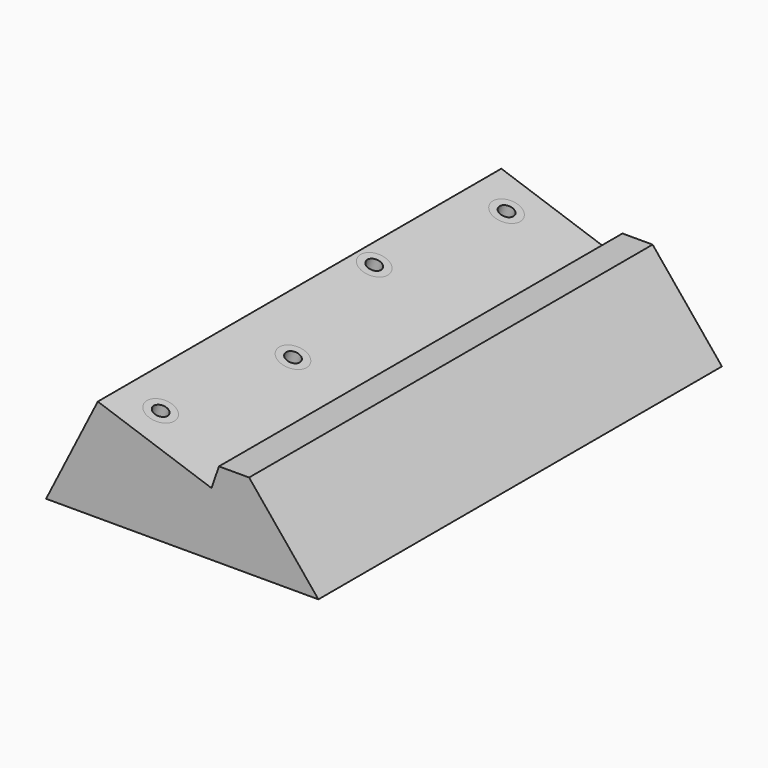
from build123d import *

# Parameters (mm, degrees)
F1_DEPTH = 140
F2_R     = 4
F3_DEPTH = 30
F4_R     = 4
F4_R_2   = 2
F5_DEPTH = 10


with BuildPart() as f1:
    # F0 (on Front) → F1 (new body)
    with BuildSketch(Plane.XZ):
        Polygon((2.0625628796, 5.9807691723), (0, 0), (-31.5625444055, 10.8848428354), (-45.9147356451, -17.5394751132), (29.6659134328, -17.5394751132), (10.4307364672, 5.9807691723), align=None)
    extrude(amount=F1_DEPTH)

    # F2 (on face) → F3 (cut)
    with BuildSketch(Plane(origin=(0, 0, 0), x_dir=(0.9453618412, 0, -0.3260229889), z_dir=(0.3260229889, 0, 0.9453618412))):
        with Locations((-23.3867340855, -10)):
            Circle(F2_R)
        with Locations((-28.3867340855, -50)):
            Circle(F2_R)
        with Locations((-23.3867340855, -130)):
            Circle(F2_R)
        with Locations((-18.3867340855, -90)):
            Circle(F2_R)
    extrude(amount=-F3_DEPTH, mode=Mode.SUBTRACT)

    # F4 (on face) → F5 (join)
    with BuildSketch(Plane(origin=(0, 0, 0), x_dir=(0.9453618412, 0, -0.3260229889), z_dir=(0.3260229889, 0, 0.9453618412))):
        with Locations((-23.3867340855, -10)):
            Circle(F4_R)
        with Locations((-23.3867340855, -10)):
            Circle(F4_R_2, mode=Mode.SUBTRACT)
        with Locations((-23.3867340855, -130)):
            Circle(F4_R)
        with Locations((-23.3867340855, -130)):
            Circle(F4_R_2, mode=Mode.SUBTRACT)
        with Locations((-28.3867340855, -50)):
            Circle(F4_R)
        with Locations((-28.3867340855, -50)):
            Circle(F4_R_2, mode=Mode.SUBTRACT)
        with Locations((-18.3867340855, -90)):
            Circle(F4_R)
        with Locations((-18.3867340855, -90)):
            Circle(F4_R_2, mode=Mode.SUBTRACT)
    extrude(amount=-F5_DEPTH)


solid = f1.part
